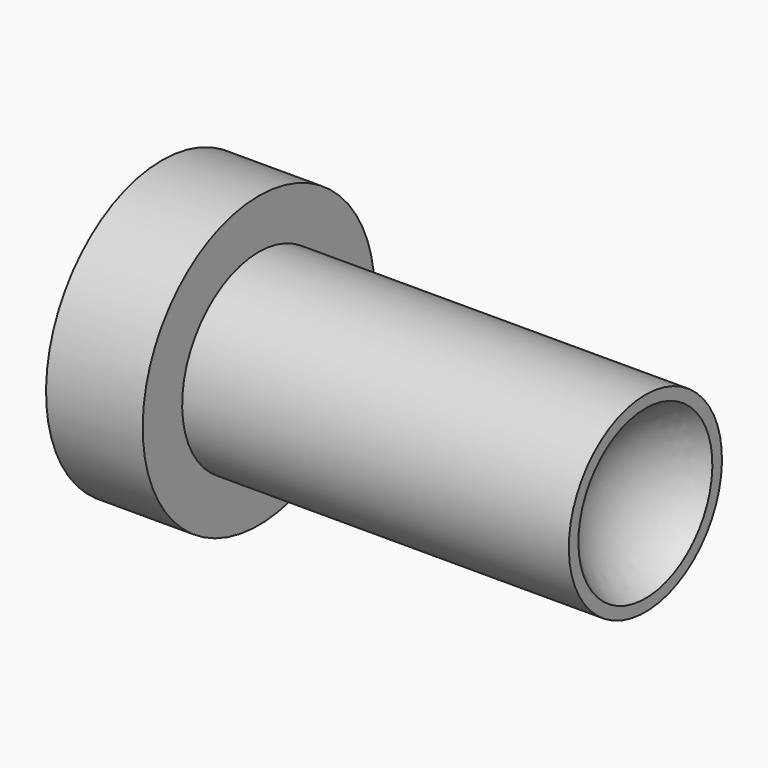
from build123d import *


with BuildPart() as f1:
    # F0 (on Front) → F1 (revolve)
    with BuildSketch(Plane.XZ):
        Polygon((0, 19.05), (-12.7, 19.05), (-12.7, 0), (0, 0), (0, 12.573), align=None)
        with BuildLine():
            Line((0, 12.573), (0, 0))
            Line((0, 0), (44.45, 0))
            ThreePointArc((44.45, 0), (46.151477, 6.35), (50.8, 10.998523))
            Line((50.8, 10.998523), (50.8, 12.573))
            Line((50.8, 12.573), (0, 12.573))
        make_face()
    revolve(axis=Axis((15.875, 0, 0), (1, 0, 0)))


solid = f1.part
